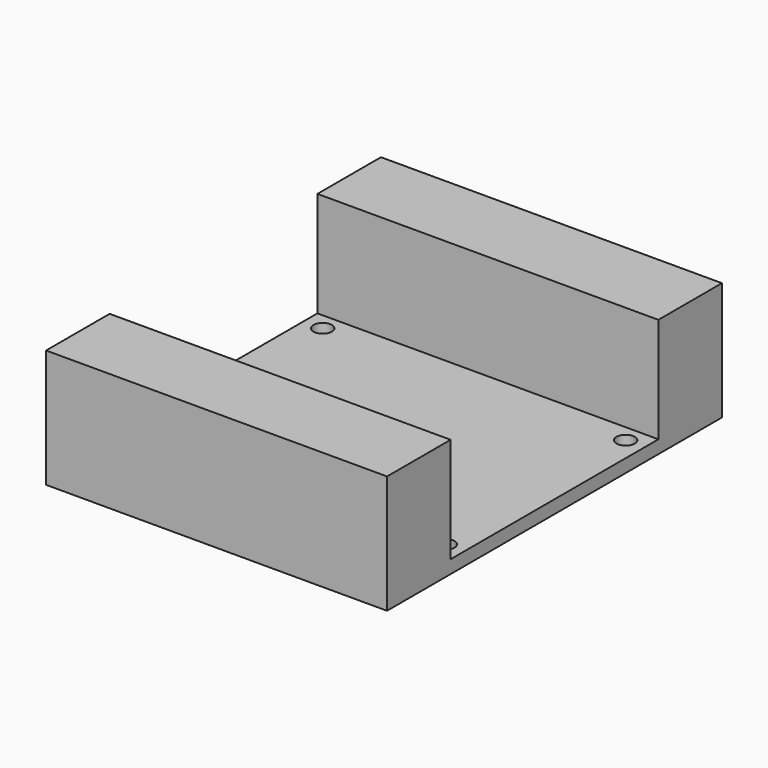
from build123d import *

# Parameters (mm, degrees)
F0_W     = 66.04
F0_H     = 81.077
F1_DEPTH = 2.54
F2_W     = 66.04
F2_H     = 15.383
F3_DEPTH = 20.371
F4_R     = 1.778
F5_DEPTH = 25


with BuildPart() as f1:
    # F0 (on Top) → F1 (new body)
    with BuildSketch(Plane.XY):
        Rectangle(F0_W, F0_H)
    extrude(amount=F1_DEPTH)

    # F2 (on face) → F3 (join)
    with BuildSketch(Plane.XY.offset(2.54)):
        with Locations((0, 32.847)):
            Rectangle(F2_W, F2_H)
        with Locations((0, -32.847)):
            Rectangle(F2_W, F2_H)
    extrude(amount=F3_DEPTH)

    # F4 (on face) → F5 (cut)
    with BuildSketch(Plane.XY.offset(2.54)):
        with Locations((-29.337, 21.8285)):
            Circle(F4_R)
        with Locations((29.337, 21.8285)):
            Circle(F4_R)
        with Locations((29.337, -21.8285)):
            Circle(F4_R)
        with Locations((-29.337, -21.8285)):
            Circle(F4_R)
    extrude(amount=-F5_DEPTH, mode=Mode.SUBTRACT)


solid = f1.part
